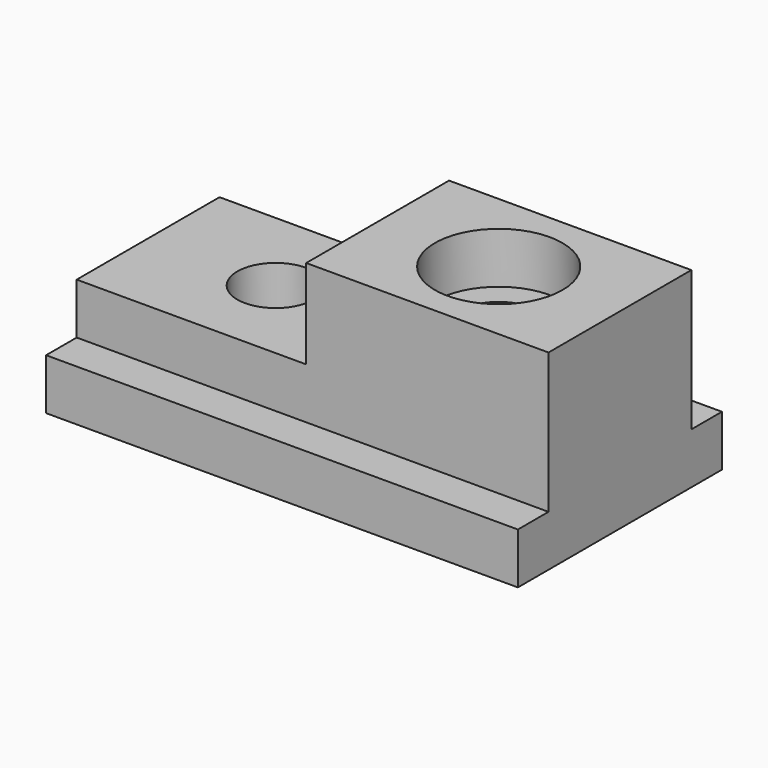
from build123d import *

# Parameters (mm, degrees)
F0_W      = 117.475
F0_H      = 63.5
F1_DEPTH  = 12.7
F2_W      = 57.15
F2_H      = 44.45
F3_DEPTH  = 12.7
F4_W      = 60.325
F4_H      = 44.45
F5_DEPTH  = 34.925
F6_R      = 9.525
F7_DEPTH  = 25.4
F8_R      = 15.875
F9_DEPTH  = 12.7
F10_R     = 9.525
F11_DEPTH = 50.8


with BuildPart() as f1:
    # F0 (on Top) → F1 (new body)
    with BuildSketch(Plane.XY):
        with Locations((58.7375, 31.75)):
            Rectangle(F0_W, F0_H)
    extrude(amount=F1_DEPTH)

    # F2 (on face) → F3 (join)
    with BuildSketch(Plane.XY.offset(12.7)):
        with Locations((28.575, 31.75)):
            Rectangle(F2_W, F2_H)
    extrude(amount=F3_DEPTH)

    # F4 (on face) → F5 (join)
    with BuildSketch(Plane.XY.offset(12.7)):
        with Locations((87.3125, 31.75)):
            Rectangle(F4_W, F4_H)
    extrude(amount=F5_DEPTH)

    # F6 (on face) → F7 (cut)
    with BuildSketch(Plane.XY.offset(25.4)):
        with Locations((31.75, 31.75)):
            Circle(F6_R)
    extrude(amount=-F7_DEPTH, mode=Mode.SUBTRACT)

    # F8 (on face) → F9 (cut)
    with BuildSketch(Plane.XY.offset(47.625)):
        with Locations((87.2998, 31.75)):
            Circle(F8_R)
    extrude(amount=-F9_DEPTH, mode=Mode.SUBTRACT)

    # F10 (on face) → F11 (cut)
    with BuildSketch(Plane.XY.offset(34.925)):
        with Locations((87.2998, 31.75)):
            Circle(F10_R)
    extrude(amount=-F11_DEPTH, mode=Mode.SUBTRACT)


solid = f1.part
